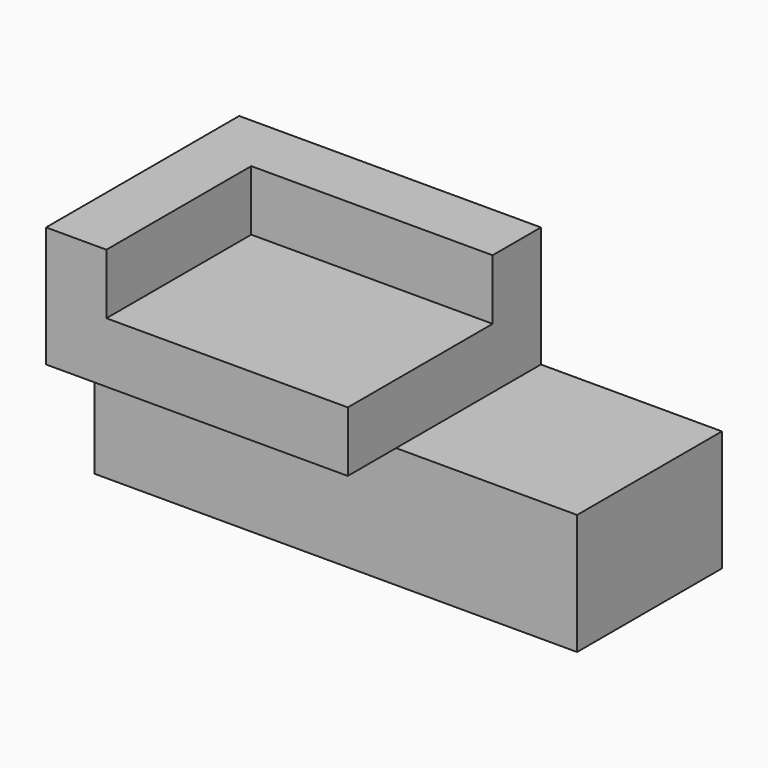
from build123d import *

# Parameters (mm, degrees)
F0_W     = 203.2
F0_H     = 76.2
F1_DEPTH = 50.8
F2_W     = 127
F2_H     = 101.6
F3_DEPTH = 50.8
F4_W     = 76.2
F4_H     = 25.4
F5_DEPTH = 101.6


with BuildPart() as f1:
    # F0 (on Top) → F1 (new body)
    with BuildSketch(Plane.XY):
        with Locations((-29.535049, 14.041049)):
            Rectangle(F0_W, F0_H)
    extrude(amount=F1_DEPTH)

    # F2 (on face) → F3 (join)
    with BuildSketch(Plane.XY.offset(50.8)):
        with Locations((-67.635049, 1.341049)):
            Rectangle(F2_W, F2_H)
    extrude(amount=F3_DEPTH)

    # F4 (on face) → F5 (cut)
    with BuildSketch(Plane.YZ.offset(-4.135049)):
        with Locations((-11.358951, 88.9)):
            Rectangle(F4_W, F4_H)
    extrude(amount=-F5_DEPTH, mode=Mode.SUBTRACT)


solid = f1.part
